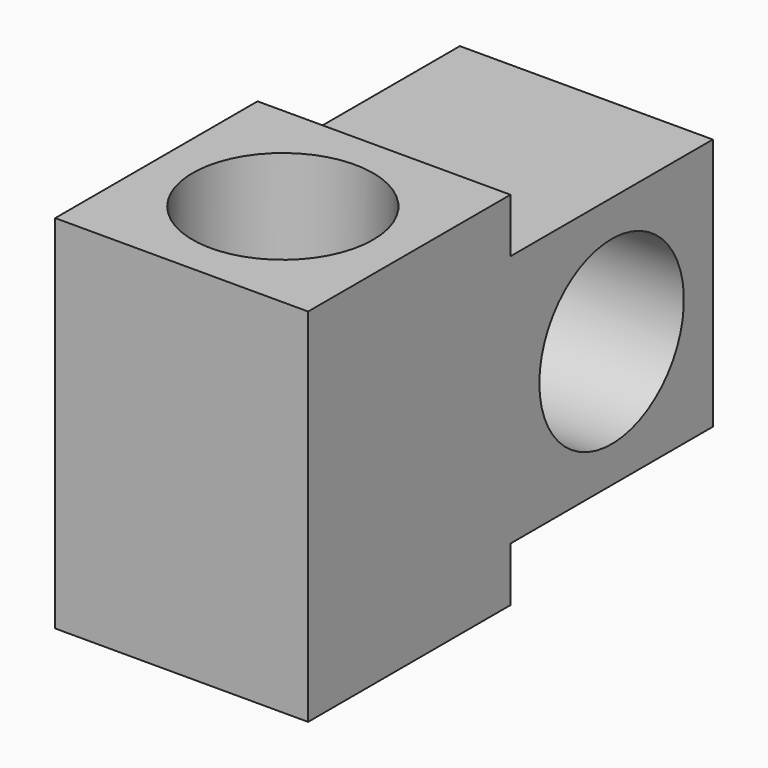
from build123d import *

# Parameters (mm, degrees)
F0_W     = 17.78
F0_H     = 17.78
F0_R     = 6.35
F1_DEPTH = 25.4
F2_W     = 17.78
F2_H     = 17.78
F3_DEPTH = 17.78
F5_D     = 12.7
F5_DEPTH = 25.4


with BuildPart() as f1:
    # F0 (on Top) → F1 (new body)
    with BuildSketch(Plane.XY):
        with Locations((-39.151133, -30.113884)):
            Rectangle(F0_W, F0_H)
        with Locations((-39.151133, -30.113884)):
            Circle(F0_R, mode=Mode.SUBTRACT)
    extrude(amount=F1_DEPTH)

    # F2 (on face) → F3 (join)
    with BuildSketch(Plane(origin=(0, -21.223884, 0), x_dir=(-1, 0, 0), z_dir=(0, 1, 0))):
        with Locations((39.151133, 12.7)):
            Rectangle(F2_W, F2_H)
    extrude(amount=F3_DEPTH)

    # F5
    with Locations(Plane.YZ.offset(-30.261133)):
        with Locations((-12.333884, 12.7)):
            Hole(F5_D / 2, depth=F5_DEPTH)


solid = f1.part
